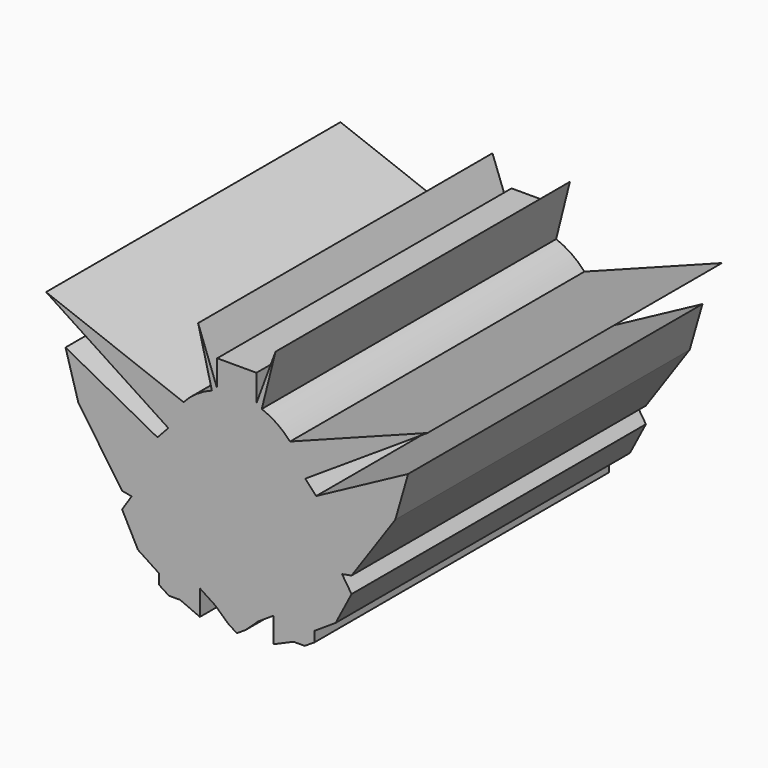
from build123d import *

# Parameters (mm, degrees)
F1_DEPTH      = 68.072
F1_DEPTH_BACK = 72.644


with BuildPart() as f1:
    # F0 (on Front) → F1 (new body, two sides)
    with BuildSketch(Plane.XZ) as f1_sk:
        with BuildLine():
            Line((-43.8699675724, 4.9395202659), (-26.3915906821, 9.9711745287))
            ThreePointArc((-26.3915906821, 9.9711745287), (-27.2085319986, 17.0209655839), (-26.1747674174, 24.042238818))
            Line((-26.1747674174, 24.042238818), (-30.3419636079, 19.5435739099))
            Line((-30.3419636079, 19.5435739099), (-43.8699675724, 4.9395202659))
        make_face()
        with BuildLine():
            ThreePointArc((-9.5438323287, 42.0849398232), (-15.4092627723, 39.0301381471), (-20.3645734785, 34.6506423572))
            Line((-20.3645734785, 34.6506423572), (-7.1865939535, 29.6427810635))
            Line((-7.1865939535, 29.6427810635), (-7.1865939535, 32.6668713242))
            Line((-7.1865939535, 32.6668713242), (-9.5438323287, 42.0849398232))
        make_face()
        with BuildLine():
            Line((0, -36.5192646342), (0, -10.610057041))
            ThreePointArc((0, -10.610057041), (-16.7339710743, -4.8564916944), (-26.3915906821, 9.9711745287))
            Line((-26.3915906821, 9.9711745287), (-43.8699675724, 4.9395202659))
            Line((-43.8699675724, 4.9395202659), (-30.3419636079, 19.5435739099))
            Line((-30.3419636079, 19.5435739099), (-65.5041635036, 38.4049154818))
            Line((-65.5041635036, 38.4049154818), (-60.6228390417, 21.448736815))
            Line((-60.6228390417, 21.448736815), (-43.8699675724, -2.8352683876))
            Line((-43.8699675724, -2.8352683876), (-40.2366704703, -3.5186973045))
            Line((-40.2366704703, -3.5186973045), (-43.8699675724, -9.0736041914))
            Line((-43.8699675724, -9.0736041914), (-37.7853512764, -20.751086995))
            Line((-37.7853512764, -20.751086995), (-29.7805646327, -25.9867765768))
            Line((-29.7805646327, -25.9867765768), (-29.7805646327, -29.878012836))
            Line((-29.7805646327, -29.878012836), (-25.9352512658, -32.3328636587))
            Line((-25.9352512658, -32.3328636587), (-21.6632075608, -32.3328636587))
            Line((-21.6632075608, -32.3328636587), (-14.1229508445, -35.6245934963))
            Line((-14.1229508445, -35.6245934963), (-14.1229508445, -25.9867765768))
            Line((-14.1229508445, -25.9867765768), (-8.1736836948, -29.878012836))
            Line((-8.1736836948, -29.878012836), (-3.4166643449, -34.2845275061))
            Line((-3.4166643449, -34.2845275061), (0, -36.5192646342))
        make_face()
        Polygon((0, 26.9117504358), (-7.1865939535, 29.6427810635), (-7.1865939535, 21.905059882), align=None)
        with BuildLine():
            Line((-7.1865939535, 42.5278679195), (-7.293939468, 42.8177008727))
            ThreePointArc((-7.293939468, 42.8177008727), (-8.4268543632, 42.4757869761), (-9.5438323287, 42.0849398232))
            Line((-9.5438323287, 42.0849398232), (-7.1865939535, 32.6668713242))
            Line((-7.1865939535, 32.6668713242), (-7.1865939535, 42.5278679195))
        make_face()
        with BuildLine():
            ThreePointArc((-20.3645734785, 34.6506423572), (-23.8665481201, 29.673348875), (-26.1747674174, 24.042238818))
            Line((-26.1747674174, 24.042238818), (-14.7990193218, 16.6017049924))
            Line((-14.7990193218, 16.6017049924), (-7.1865939535, 21.905059882))
            Line((-7.1865939535, 21.905059882), (-7.1865939535, 29.6427810635))
            Line((-7.1865939535, 29.6427810635), (-20.3645734785, 34.6506423572))
        make_face()
        with BuildLine():
            Line((-72.940915823, 54.6305663884), (-26.1747674174, 24.042238818))
            ThreePointArc((-26.1747674174, 24.042238818), (-23.8665481201, 29.673348875), (-20.3645734785, 34.6506423572))
            Line((-20.3645734785, 34.6506423572), (-72.940915823, 54.6305663884))
        make_face()
        with BuildLine():
            ThreePointArc((-26.1747674174, 24.042238818), (-27.2085319986, 17.0209655839), (-26.3915906821, 9.9711745287))
            Line((-26.3915906821, 9.9711745287), (-21.5597059578, 11.3621717319))
            Line((-21.5597059578, 11.3621717319), (-26.1747674174, 24.042238818))
        make_face()
        with BuildLine():
            ThreePointArc((-9.5438323287, 42.0849398232), (-8.4268543632, 42.4757869761), (-7.293939468, 42.8177008727))
            Line((-7.293939468, 42.8177008727), (-14.7990193218, 63.081420958))
            Line((-14.7990193218, 63.081420958), (-9.5438323287, 42.0849398232))
        make_face()
        Polygon((-4.6579921618, 35.7006415725), (-7.1865939535, 42.5278679195), (-7.1865939535, 32.6668713242), align=None)
        with BuildLine():
            Line((-7.1865939535, 42.5278679195), (-7.1865939535, 42.8473305385))
            ThreePointArc((-7.1865939535, 42.8473305385), (-7.2402818676, 42.8325706174), (-7.293939468, 42.8177008727))
            Line((-7.293939468, 42.8177008727), (-7.1865939535, 42.5278679195))
        make_face()
        with BuildLine():
            ThreePointArc((-26.3915906821, 9.9711745287), (-16.7339710743, -4.8564916944), (0, -10.610057041))
            ThreePointArc((0, -10.610057041), (19.2416214619, -2.6399164695), (27.2117620334, 16.6017049924))
            ThreePointArc((27.2117620334, 16.6017049924), (21.7356187496, 32.9737198511), (7.5112464838, 42.7562680593))
            Line((7.5112464838, 42.7562680593), (7.5112464838, 11.7172822356))
            Line((7.5112464838, 11.7172822356), (-7.1865939535, 11.7172822356))
            Line((-7.1865939535, 11.7172822356), (-7.1865939535, 21.905059882))
            Line((-7.1865939535, 21.905059882), (-14.7990193218, 16.6017049924))
            Line((-14.7990193218, 16.6017049924), (-26.1747674174, 24.042238818))
            Line((-26.1747674174, 24.042238818), (-21.5597059578, 11.3621717319))
            Line((-21.5597059578, 11.3621717319), (-26.3915906821, 9.9711745287))
        make_face()
        with BuildLine():
            Line((7.5112464838, 11.7172822356), (7.5112464838, 42.7562680593))
            ThreePointArc((7.5112464838, 42.7562680593), (0.1685909551, 43.8129447666), (-7.1865939535, 42.8473305385))
            Line((-7.1865939535, 42.8473305385), (-7.1865939535, 42.5278679195))
            Line((-7.1865939535, 42.5278679195), (-4.6579921618, 35.7006415725))
            Line((-4.6579921618, 35.7006415725), (-7.1865939535, 32.6668713242))
            Line((-7.1865939535, 32.6668713242), (-7.1865939535, 29.6427810635))
            Line((-7.1865939535, 29.6427810635), (0, 26.9117504358))
            Line((0, 26.9117504358), (-7.1865939535, 21.905059882))
            Line((-7.1865939535, 21.905059882), (-7.1865939535, 11.7172822356))
            Line((-7.1865939535, 11.7172822356), (7.5112464838, 11.7172822356))
        make_face()
        with BuildLine():
            ThreePointArc((-7.1865939535, 42.8473305385), (0.1685909551, 43.8129447666), (7.5112464838, 42.7562680593))
            Line((7.5112464838, 42.7562680593), (7.5112464838, 53.6164604127))
            Line((7.5112464838, 53.6164604127), (-7.1865939535, 53.6164604127))
            Line((-7.1865939535, 53.6164604127), (-7.1865939535, 42.8473305385))
        make_face()
    extrude(amount=F1_DEPTH)
    extrude(f1_sk.sketch, amount=-F1_DEPTH_BACK)

    # F2: F1 across plane


with BuildPart() as f1_1:
    add(f1.part)
    add(f1.part.mirror(Plane.YZ))


solid = f1_1.part
